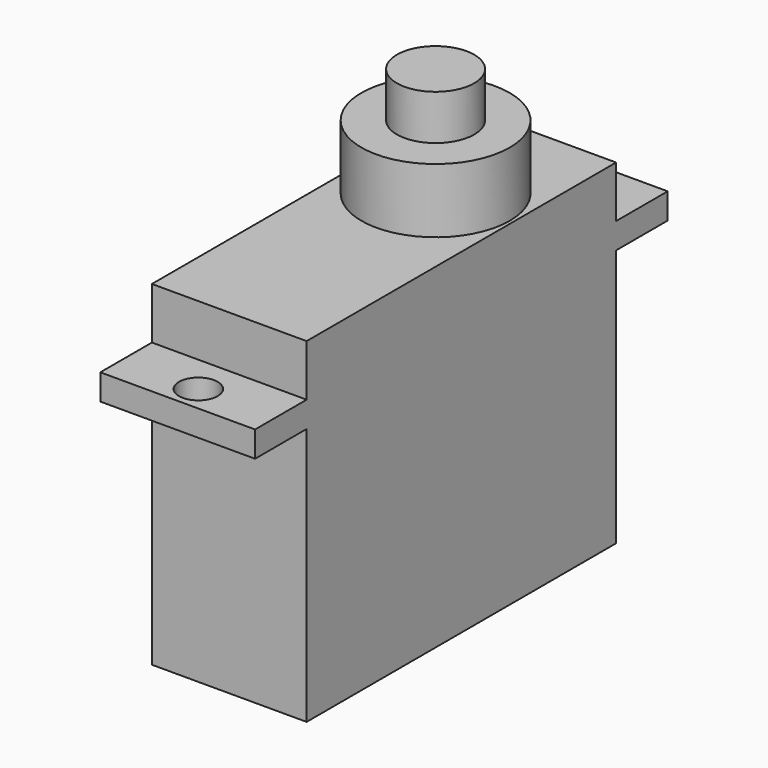
from build123d import *

# Parameters (mm, degrees)
F0_W     = 12
F0_H     = 5
F0_R     = 1.5
F0_H_2   = 30
F1_DEPTH = 2
F2_DEPTH = 6
F3_DEPTH = 20
F4_R     = 3
F5_DEPTH = 8.5
F4_R_2   = 5.75
F6_DEPTH = 5


with BuildPart() as f1:
    # F0 (on Top) → F1 (new body)
    with BuildSketch(Plane.XY):
        with Locations((6, 37.5)):
            Rectangle(F0_W, F0_H)
        with Locations((6, 38)):
            Circle(F0_R, mode=Mode.SUBTRACT)
        with Locations((6, 20)):
            Rectangle(F0_W, F0_H_2)
        with Locations((6, 2.5)):
            Rectangle(F0_W, F0_H)
        with Locations((6, 2)):
            Circle(F0_R, mode=Mode.SUBTRACT)
    extrude(amount=F1_DEPTH)

    # F0 (on Top) → F2 (join)
    with BuildSketch(Plane.XY):
        with Locations((6, 20)):
            Rectangle(F0_W, F0_H_2)
    extrude(amount=F2_DEPTH)

    # F0 (on Top) → F3 (join)
    with BuildSketch(Plane.XY):
        with Locations((6, 20)):
            Rectangle(F0_W, F0_H_2)
    extrude(amount=-F3_DEPTH)

    # F4 (on face) → F5 (join)
    with BuildSketch(Plane.XY.offset(6)):
        with Locations((6, 25)):
            Circle(F4_R)
    extrude(amount=F5_DEPTH)

    # F4 (on face) → F6 (join)
    with BuildSketch(Plane.XY.offset(6)):
        with Locations((6, 25)):
            Circle(F4_R_2)
        with Locations((6, 25)):
            Circle(F4_R, mode=Mode.SUBTRACT)
    extrude(amount=F6_DEPTH)


solid = f1.part
